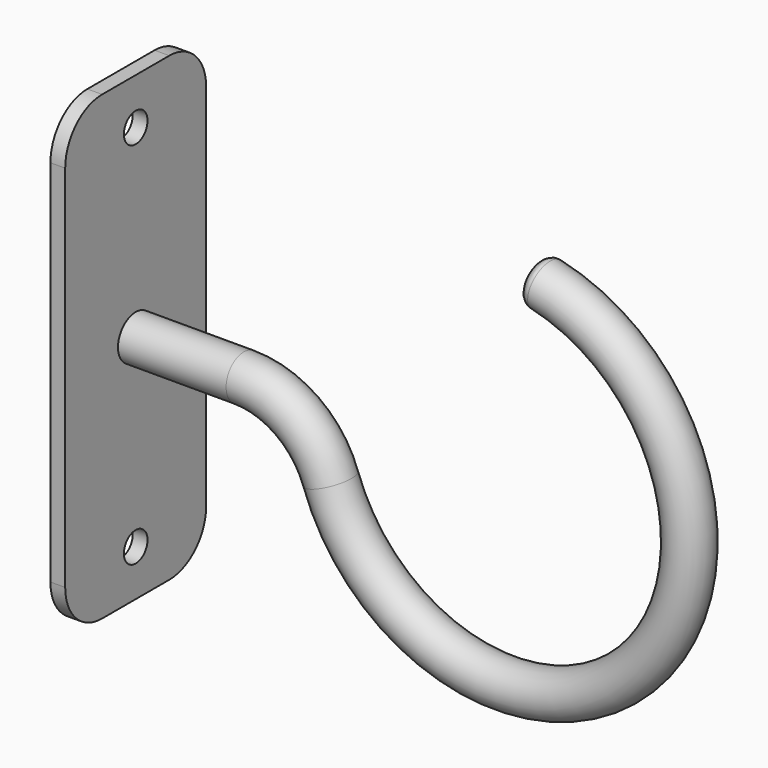
from build123d import *

# Parameters (mm, degrees)
F1_R     = 2.4
F3_W     = 19.1
F3_H     = 50
F3_R     = 1.6
F4_DEPTH = 1.6
F5_R     = 5
F6_R     = 1


with BuildPart() as f2:
    # F2: sweep along a path in F0
    with BuildLine(Plane.XZ) as f2_path:
        ThreePointArc((43.4729635533, 19.6961550602), (55.2614034679, -12.9263128614), (21.1438191684, -6.6666666667))
        ThreePointArc((21.1438191684, -6.6666666667), (17.4892314444, -1.8350341907), (11.7157287525, 0))
        Line((11.7157287525, 0), (0, 0))
    # F1 (on Right) → F2 (sweep)
    with BuildSketch(Plane.YZ):
        Circle(F1_R)
    sweep(path=f2_path.line)

    # F3 (on Right) → F4 (join)
    with BuildSketch(Plane.YZ):
        Rectangle(F3_W, F3_H)
        with Locations((0, -20)):
            Circle(F3_R, mode=Mode.SUBTRACT)
        with Locations((0, 20)):
            Circle(F3_R, mode=Mode.SUBTRACT)
    extrude(amount=-F4_DEPTH)

    # F5
    f5_edges = [f2.edges().sort_by_distance(p)[0] for p in [
        (-0.8, -9.55, 25),
        (-0.8, 9.55, 25),
        (-0.8, -9.55, -25),
        (-0.8, 9.55, -25),
    ]]
    fillet(f5_edges, radius=F5_R)

    # F6
    f6_edges = [f2.edges().sort_by_distance(p)[0] for p in [
        (43.472964, -2.4, 19.696155),
    ]]
    fillet(f6_edges, radius=F6_R)


solid = f2.part
